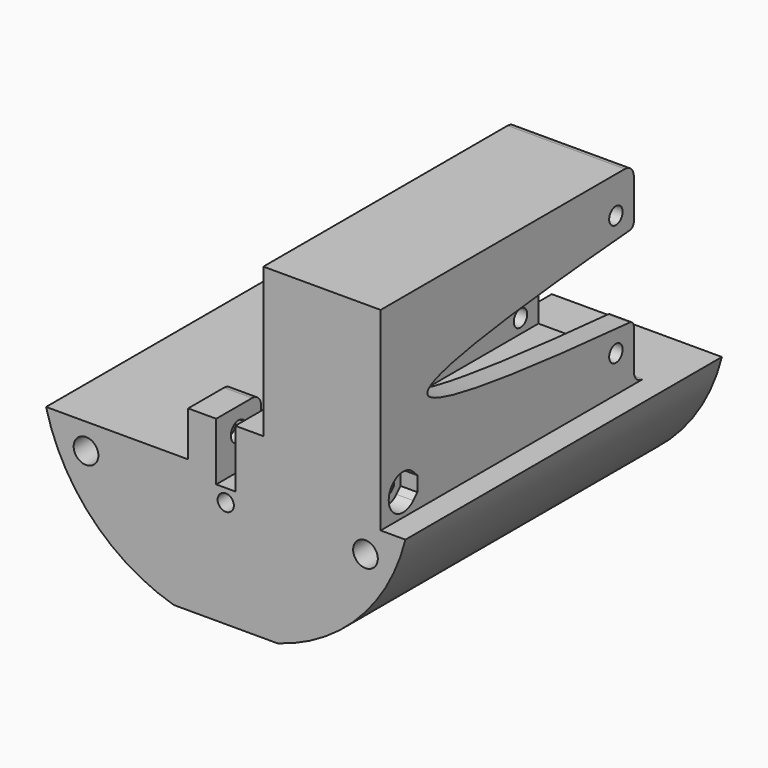
from build123d import *

# Parameters (mm, degrees)
SKETCH_R        = 2.2
SKETCH_R_2      = 1.45
PAD_DEPTH       = 33
SKETCH037_R     = 2.2
SKETCH037_R_2   = 1.45
PAD016_DEPTH    = 4.5
SKETCH039_W     = 13.4
SKETCH039_H     = 10
PAD017_DEPTH    = 8
SKETCH045_W     = 20.9
SKETCH045_H     = 56.4
PAD018_DEPTH    = 34.6
POCKET022_DEPTH = 38.716621
SKETCH046_W     = 13.1
SKETCH046_H     = 26.8
POCKET023_DEPTH = 47.5
SKETCH047_R     = 1.5
POCKET024_DEPTH = 20.9
SKETCH041_W     = 3.4
SKETCH041_H     = 77.902924
POCKET025_DEPTH = 10.3
POCKET027_DEPTH = 3
FILLET014_R     = 5
FILLET015_R     = 2
FILLET016_R     = 2
FILLET017_R     = 1
POCKET028_DEPTH = 3


with BuildPart() as part:
    # Sketch → Pad (new body, symmetric)
    with BuildSketch(Plane.XZ):
        with BuildLine():
            Line((-9.25, -31.677082), (9.25, -31.677082))
            ThreePointArc((9.25, -31.677082), (23.787894, -22.872168), (32.015621, -8))
            Line((-32.015621, -8), (32.015621, -8))
            ThreePointArc((-32.015621, -8), (-23.787894, -22.872168), (-9.25, -31.677082))
        make_face()
        with Locations((24.9, -12.6)):
            Circle(SKETCH_R, mode=Mode.SUBTRACT)
        with Locations((-24.9, -12.6)):
            Circle(SKETCH_R, mode=Mode.SUBTRACT)
        with Locations((0, -12.6)):
            Circle(SKETCH_R_2, mode=Mode.SUBTRACT)
        with BuildLine():
            ThreePointArc((0, -18.243174), (-6.771568, -11.057878), (-16.248592, -13.827105))
            ThreePointArc((-16.248592, -13.827105), (-21.564175, -13.876493), (-18.494342, -18.216307))
            ThreePointArc((-18.494342, -18.216307), (-11.197344, -29.424262), (0, -22.11099))
            ThreePointArc((0, -22.11099), (18.7, -20.177082), (0, -18.243174))
        make_face(mode=Mode.SUBTRACT)
    extrude(amount=PAD_DEPTH, both=True)

    # Sketch037 → Pad016 (join)
    with BuildSketch(Plane.XZ.offset(33)):
        with BuildLine():
            ThreePointArc((-32.015621, -8), (-23.787894, -22.872168), (-9.25, -31.677082))
            Line((9.25, -31.677082), (-9.25, -31.677082))
            ThreePointArc((9.25, -31.677082), (23.787894, -22.872168), (32.015621, -8))
            Line((-32.015621, -8), (32.015621, -8))
        make_face()
        with Locations((-24.9, -12.6)):
            Circle(SKETCH037_R, mode=Mode.SUBTRACT)
        with Locations((0, -12.6)):
            Circle(SKETCH037_R_2, mode=Mode.SUBTRACT)
        with Locations((24.9, -12.6)):
            Circle(SKETCH037_R, mode=Mode.SUBTRACT)
    extrude(amount=PAD016_DEPTH)

    # Sketch039 (on Face2 of Pad016) → Pad017 (join)
    with BuildSketch(Plane(origin=(0, 0, -8), x_dir=(-1, 0, 0), z_dir=(0, 0, 1))):
        with Locations((0, 32.5)):
            Rectangle(SKETCH039_W, SKETCH039_H)
    extrude(amount=PAD017_DEPTH)

    # Sketch045 (on Face2 of Pad017) → Pad018 (join)
    with BuildSketch(Plane(origin=(0, 0, -8), x_dir=(-1, 0, 0), z_dir=(0, 0, 1))):
        with Locations((-17.15, 9.3)):
            Rectangle(SKETCH045_W, SKETCH045_H)
    extrude(amount=PAD018_DEPTH)

    # Sketch040 (on Face12 of Pad018) → Pocket022 (cut, through all)
    with BuildSketch(Plane(origin=(-6.7, 0, -11), x_dir=(0, 0, -1), z_dir=(-1, 0, 0))):
        with BuildLine():
            Line((-7.724863, 30.75), (-6.275126, 30.75))
            Line((-6.275126, 30.75), (-5.762563, 31.262563))
            ThreePointArc((-5.762563, 31.262563), (-7, 34.25), (-8.237437, 31.262563))
            Line((-7.724863, 30.75), (-8.237437, 31.262563))
        make_face()
    extrude(amount=-POCKET022_DEPTH, mode=Mode.SUBTRACT)

    # Sketch046 (on Face9 of Pocket022) → Pocket023 (cut)
    with BuildSketch(Plane(origin=(0, 18.9, 0), x_dir=(1, 0, 0), z_dir=(0, 1, 0))):
        with Locations((17.15, -9.4)):
            Rectangle(SKETCH046_W, SKETCH046_H)
    extrude(amount=-POCKET023_DEPTH, mode=Mode.SUBTRACT)

    # Sketch047 (on Face8 of Pocket023) → Pocket024 (cut)
    with BuildSketch(Plane(origin=(27.6, 0, 0), x_dir=(0, 0, 1), z_dir=(1, 0, 0))):
        with BuildLine():
            add(Edge.make_bspline(
                [(2, -18.9), (9.3, 73.1), (16.6, -18.9)],
                knots=[-7.3, -7.3, -7.3, 7.3, 7.3, 7.3], degree=2))
            Line((16.6, -18.9), (2, -18.9))
        make_face()
        with Locations((-1.5, -14.9)):
            Circle(SKETCH047_R)
        with Locations((20.1, -14.9)):
            Circle(SKETCH047_R)
    extrude(amount=-POCKET024_DEPTH, mode=Mode.SUBTRACT)

    # Sketch041 (on Face38 of Pocket024) → Pocket025 (cut)
    with BuildSketch(Plane(origin=(0, 0, 0), x_dir=(-1, 0, 0), z_dir=(0, 0, 1))):
        with Locations((0, -1.451462)):
            Rectangle(SKETCH041_W, SKETCH041_H)
    extrude(amount=-POCKET025_DEPTH, mode=Mode.SUBTRACT)

    # Sketch051 (on Face8 of Pocket025) → Pocket027 (cut)
    with BuildSketch(Plane(origin=(-6.7, 0, 0), x_dir=(0, 0, -1), z_dir=(-1, 0, 0))):
        Polygon((5.674316, 29.6), (7.348632, 32.5), (5.674316, 35.4), (2.325684, 35.4), (0.651368, 32.5), (2.325684, 29.6), align=None)
    extrude(amount=-POCKET027_DEPTH, mode=Mode.SUBTRACT)

    # Fillet014
    fillet014_edges = [part.edges().sort_by_distance(p)[0] for p in [
        (-4.2, -27.5, -8),
        (4.2, -27.5, -8),
    ]]
    fillet(fillet014_edges, radius=FILLET014_R)

    # Fillet015
    fillet015_edges = [part.edges().sort_by_distance(p)[0] for p in [
        (-4.2, -27.5, 0),
        (4.2, -27.5, 0),
    ]]
    fillet(fillet015_edges, radius=FILLET015_R)

    # Fillet016
    fillet016_edges = [part.edges().sort_by_distance(p)[0] for p in [
        (17.15, 18.9, -8),
        (17.15, 18.9, 26.6),
    ]]
    fillet(fillet016_edges, radius=FILLET016_R)

    # Fillet017
    fillet017_edges = [part.edges().sort_by_distance(p)[0] for p in [
        (25.65, 18.9, 2),
        (8.65, 18.9, 2),
        (8.65, 18.9, 16.6),
        (25.65, 18.9, 16.6),
    ]]
    fillet(fillet017_edges, radius=FILLET017_R)

    # Sketch052 (on Face18 of Fillet017) → Pocket028 (cut)
    with BuildSketch(Plane(origin=(27.6, 0, 0), x_dir=(0, 0, 1), z_dir=(1, 0, 0))):
        with BuildLine():
            ThreePointArc((-1.737258, 30.237259), (-3.999993, 35.7), (-6.262753, 30.237269))
            Line((-5.325483, 29.3), (-6.262753, 30.237269))
            Line((-2.674516, 29.3), (-5.325483, 29.3))
            Line((-1.737258, 30.237259), (-2.674516, 29.3))
        make_face()
    extrude(amount=-POCKET028_DEPTH, mode=Mode.SUBTRACT)


solid = part.part
